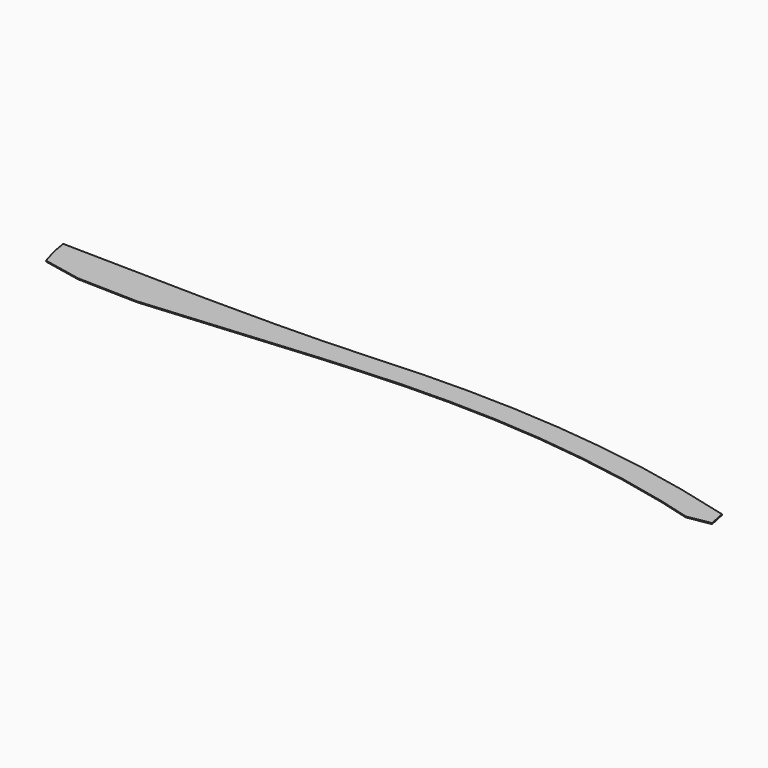
from build123d import *

# Parameters (mm, degrees)
F1_DEPTH = 4


with BuildPart() as f1:
    # F0 (on Top) → F1 (new body)
    with BuildSketch(Plane.XY):
        with BuildLine():
            Line((275, 279), (533, 272))
            Line((533, 272), (1260, 334))
            Line((1260, 334), (1400, 344))
            Line((1400, 344), (1600, 355))
            Line((1600, 355), (1800, 358))
            Line((1800, 358), (2000, 353))
            Line((2000, 353), (2200, 339))
            Line((2200, 339), (2400, 315))
            Line((2400, 315), (2600, 282))
            Line((2600, 282), (2800, 238))
            Line((2800, 238), (2933, 202))
            Line((2933, 202), (3032, 219))
            Line((3032, 219), (3017, 290))
            Line((3017, 290), (2800, 345))
            Line((2800, 345), (2600, 386))
            Line((2600, 386), (2400, 417))
            Line((2400, 417), (2200, 439))
            Line((2200, 439), (2000, 452))
            Line((2000, 452), (1800, 457))
            Line((1800, 457), (1600, 454))
            Line((1600, 454), (1400, 444))
            Line((1400, 444), (1200, 435))
            Line((1200, 435), (1000, 431))
            Line((1000, 431), (702, 431))
            Line((702, 431), (82, 442))
            add(Edge.make_bspline(
                [(82, 442), (87.687328, 398.268282), (99.278323, 354.673535), (113, 312)],
                knots=[0, 0, 0, 0, 133.645052, 133.645052, 133.645052, 133.645052], degree=3))
            Line((113, 312), (275, 279))
        make_face()
    extrude(amount=F1_DEPTH)


solid = f1.part
